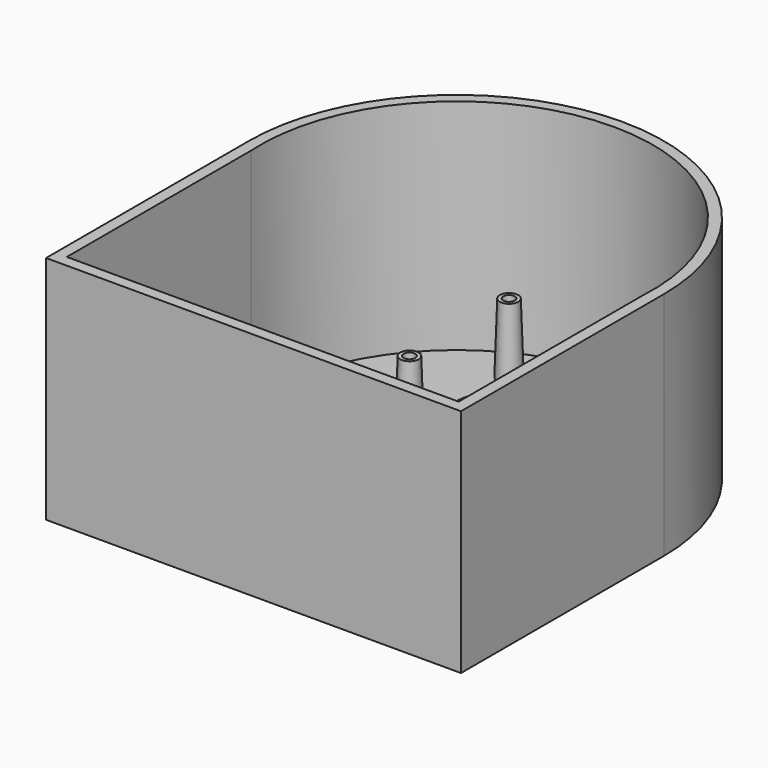
from build123d import *

# Parameters (mm, degrees)
F0_W      = 180
F0_H      = 110
F1_DEPTH  = 100
F2_W      = 170
F2_H      = 100
F3_DEPTH  = 95
F4_R      = 30
F4_R_2    = 5
F4_R_3    = 10
F5_DEPTH  = 5.001
F6_R      = 6
F8_R      = 4
F6_R_2    = 5
F13_R     = 2
F13_R_2   = 2.5
F18_DEPTH = 20


with BuildPart() as f1:
    # F0 (on Top) → F1 (new body)
    with BuildSketch(Plane.XY):
        Rectangle(F0_W, F0_H)
        with BuildLine():
            Line((-90, 55), (90, 55))
            ThreePointArc((90, 55), (0, 145), (-90, 55))
        make_face()
    extrude(amount=F1_DEPTH)

    # F2 (on face) → F3 (cut)
    with BuildSketch(Plane.XY.offset(100)):
        Rectangle(F2_W, F2_H)
        with BuildLine():
            Line((-85, 50), (85, 50))
            ThreePointArc((85, 50), (0, 140.3125000018), (-85, 50))
        make_face()
    extrude(amount=-F3_DEPTH, mode=Mode.SUBTRACT)

    # F4 (on face) → F5 (cut, through all)
    with BuildSketch(Plane.XY.offset(5)):
        with Locations((0, 90.3125000018)):
            Circle(F4_R)
        with Locations((-55, 0.3125000018)):
            Circle(F4_R_2)
        with Locations((-55, -14.6874999982)):
            Circle(F4_R_2)
        with Locations((55, 0.3125000018)):
            Circle(F4_R_2)
        with Locations((55, -14.6874999982)):
            Circle(F4_R_2)
        with Locations((-50, 20.3125000018)):
            Circle(F4_R_3)
        with Locations((50, 20.3125000018)):
            Circle(F4_R_3)
        with Locations((-55, -29.6874999982)):
            Circle(F4_R_2)
        with Locations((55, -29.6874999982)):
            Circle(F4_R_2)
    extrude(amount=-F5_DEPTH, mode=Mode.SUBTRACT)

    # F6 (on face) → F9 section 0
    with BuildSketch(Plane.XY.offset(5)):
        with Locations((-21.67, 27.6725000018)):
            Circle(F6_R)
    # F8 (on offset) → F9 section 1
    with BuildSketch(Plane.XY.offset(35)):
        with Locations((-21.67, 27.6725000018)):
            Circle(F8_R)
    loft()

    # F6 (on face) → F10 section 0
    with BuildSketch(Plane.XY.offset(5)):
        with Locations((21.67, 27.6725000018)):
            Circle(F6_R)
    # F8 (on offset) → F10 section 1
    with BuildSketch(Plane.XY.offset(35)):
        with Locations((21.67, 27.6725000018)):
            Circle(F8_R)
    loft()

    # F6 (on face) → F11 section 0
    with BuildSketch(Plane.XY.offset(5)):
        with Locations((-23.17, -39.6874999982)):
            Circle(F6_R)
    # F8 (on offset) → F11 section 1
    with BuildSketch(Plane.XY.offset(35)):
        with Locations((-23.17, -39.6874999982)):
            Circle(F8_R)
    loft()

    # F6 (on face) → F12 section 0
    with BuildSketch(Plane.XY.offset(5)):
        with Locations((23.17, -39.6874999982)):
            Circle(F6_R)
    # F8 (on offset) → F12 section 1
    with BuildSketch(Plane.XY.offset(35)):
        with Locations((23.17, -39.6874999982)):
            Circle(F8_R)
    loft()

    # F6 (on face) → F14 section 0
    with BuildSketch(Plane.XY.offset(5)):
        with Locations((27, 117.3125000004)):
            Circle(F6_R_2)
    # F8 (on offset) → F14 section 1
    with BuildSketch(Plane.XY.offset(35)):
        with Locations((27, 117.3125000004)):
            Circle(F8_R)
    loft()

    # F6 (on face) → F15 section 0
    with BuildSketch(Plane.XY.offset(5)):
        with Locations((27, 63.3125000004)):
            Circle(F6_R_2)
    # F8 (on offset) → F15 section 1
    with BuildSketch(Plane.XY.offset(35)):
        with Locations((27, 63.3125000004)):
            Circle(F8_R)
    loft()

    # F6 (on face) → F16 section 0
    with BuildSketch(Plane.XY.offset(5)):
        with Locations((-27, 63.3125000004)):
            Circle(F6_R_2)
    # F8 (on offset) → F16 section 1
    with BuildSketch(Plane.XY.offset(35)):
        with Locations((-27, 63.3125000004)):
            Circle(F8_R)
    loft()

    # F6 (on face) → F17 section 0
    with BuildSketch(Plane.XY.offset(5)):
        with Locations((-27, 117.3125000004)):
            Circle(F6_R_2)
    # F8 (on offset) → F17 section 1
    with BuildSketch(Plane.XY.offset(35)):
        with Locations((-27, 117.3125000004)):
            Circle(F8_R)
    loft()

    # F13 (on face) → F18 (cut)
    with BuildSketch(Plane.XY.offset(35)):
        with Locations((-21.67, 27.6725000018)):
            Circle(F13_R)
        with Locations((21.67, 27.6725000018)):
            Circle(F13_R)
        with Locations((23.17, -39.6874999982)):
            Circle(F13_R)
        with Locations((-23.17, -39.6874999982)):
            Circle(F13_R)
        with Locations((27, 63.3125000004)):
            Circle(F13_R_2)
        with Locations((27, 117.3125000004)):
            Circle(F13_R_2)
        with Locations((-27, 63.3125000004)):
            Circle(F13_R_2)
        with Locations((-27, 117.3125000004)):
            Circle(F13_R_2)
    extrude(amount=-F18_DEPTH, mode=Mode.SUBTRACT)


solid = f1.part
